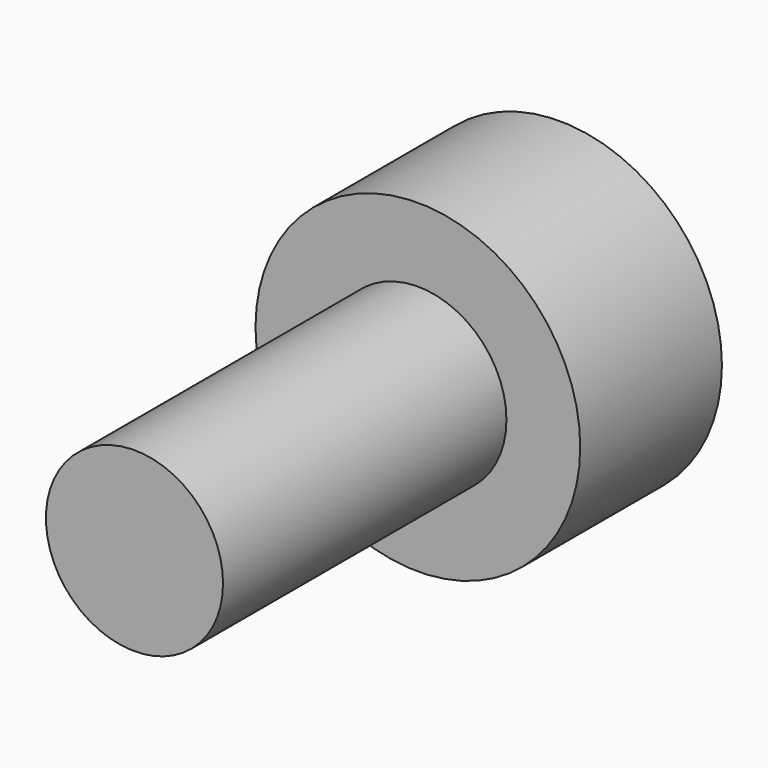
from build123d import *

# Parameters (mm, degrees)
SKETCH049_R             = 2.75
PAD025_DEPTH            = 3
SKETCH050_R             = 1.5
PAD002_DEPTH            = 6
POCKET020_DEPTH         = 4
BODY015_PLACEMENT_ANGLE = 90


with BuildPart() as part:
    # Sketch049 → Pad025 (new body)
    with BuildSketch(Plane.XY):
        Circle(SKETCH049_R)
    extrude(amount=PAD025_DEPTH)

    # Sketch050 (on Face2 of Pad025) → Pad002 (join)
    with BuildSketch(Plane(origin=(0, 0, 0), x_dir=(1, 0, 0), z_dir=(0, 0, -1))):
        Circle(SKETCH050_R)
    extrude(amount=PAD002_DEPTH)

    # Sketch048 (on DatumPlane) → Pocket020 (cut)
    with BuildSketch(Plane.XY.offset(3)):
        Polygon((0.721688, -1.25), (1.443376, 0), (0.721688, 1.25), (-0.721688, 1.25), (-1.443376, 0), (-0.721688, -1.25), align=None)
    extrude(amount=-POCKET020_DEPTH, mode=Mode.SUBTRACT)


with BuildPart() as part_1:
    # Body015 placement: moved
    add(part.part.moved(Location((37.45, 1.3, -2.5))).rotate(Axis((37.45, 1.3, -2.5), (-1, 0, 0)), BODY015_PLACEMENT_ANGLE))


solid = part_1.part
